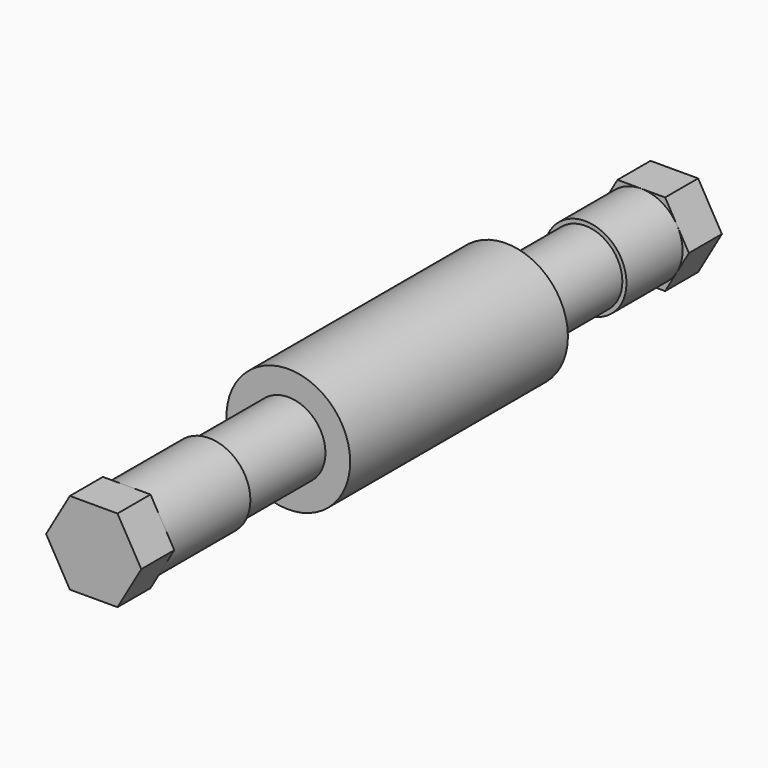
from build123d import *

# Parameters (mm, degrees)
F0_R           = 5
F1_DEPTH       = 82
F4_DEPTH       = 4
F6_R           = 5.5
F6_R_2         = 4.5
F7_DEPTH       = 11
F7_DEPTH_BACK  = 1
F9_R           = 5.5
F9_R_2         = 4.5
F10_DEPTH      = 11
F10_DEPTH_BACK = 1
F11_DEPTH      = 5
F13_R          = 7.5
F14_DEPTH      = 16.5
F14_DEPTH_BACK = 16.5
F16_DEPTH      = 1


with BuildPart() as f1:
    # F0 (on Front) → F1 (new body)
    with BuildSketch(Plane.XZ):
        Circle(F0_R)
    extrude(amount=F1_DEPTH)

    # F3 (on face) → F4 (join)
    with BuildSketch(Plane(origin=(0, 0, 0), x_dir=(-1, 0, 0), z_dir=(0, 1, 0))):
        Polygon((2.886751, 5), (-2.886751, 5), (-5.773503, 0), (-2.886751, -5), (2.886751, -5), (5.773503, 0), align=None)
    extrude(amount=-F4_DEPTH)

    # F6 (on offset) → F7 (cut, two sides)
    with BuildSketch(Plane.XZ.offset(13.5)) as f7_sk:
        Circle(F6_R)
        Circle(F6_R_2, mode=Mode.SUBTRACT)
    extrude(amount=F7_DEPTH, mode=Mode.SUBTRACT)
    extrude(f7_sk.sketch, amount=-F7_DEPTH_BACK, mode=Mode.SUBTRACT)

    # F9 (on offset) → F10 (cut, two sides)
    with BuildSketch(Plane.XZ.offset(58.5)) as f10_sk:
        Circle(F9_R)
        Circle(F9_R_2, mode=Mode.SUBTRACT)
    extrude(amount=F10_DEPTH, mode=Mode.SUBTRACT)
    extrude(f10_sk.sketch, amount=-F10_DEPTH_BACK, mode=Mode.SUBTRACT)

    # F2 (on face) → F11 (join)
    with BuildSketch(Plane.XZ.offset(82)):
        Polygon((2.886751, 5), (-2.886751, 5), (-5.773503, 0), (-2.886751, -5), (2.886751, -5), (5.773503, 0), align=None)
    extrude(amount=F11_DEPTH)

    # F13 (on offset) → F14 (join, two sides)
    with BuildSketch(Plane.XZ.offset(41)) as f14_sk:
        Circle(F13_R)
    extrude(amount=F14_DEPTH)
    extrude(f14_sk.sketch, amount=-F14_DEPTH_BACK)

    # F15 (on face) → F16 (join)
    with BuildSketch(Plane(origin=(0, 0, 0), x_dir=(-1, 0, 0), z_dir=(0, 1, 0))):
        Polygon((5.773503, 0), (2.886751, 5), (-2.886751, 5), (-5.773503, 0), (-2.886751, -5), (2.886751, -5), align=None)
    extrude(amount=F16_DEPTH)


solid = f1.part
